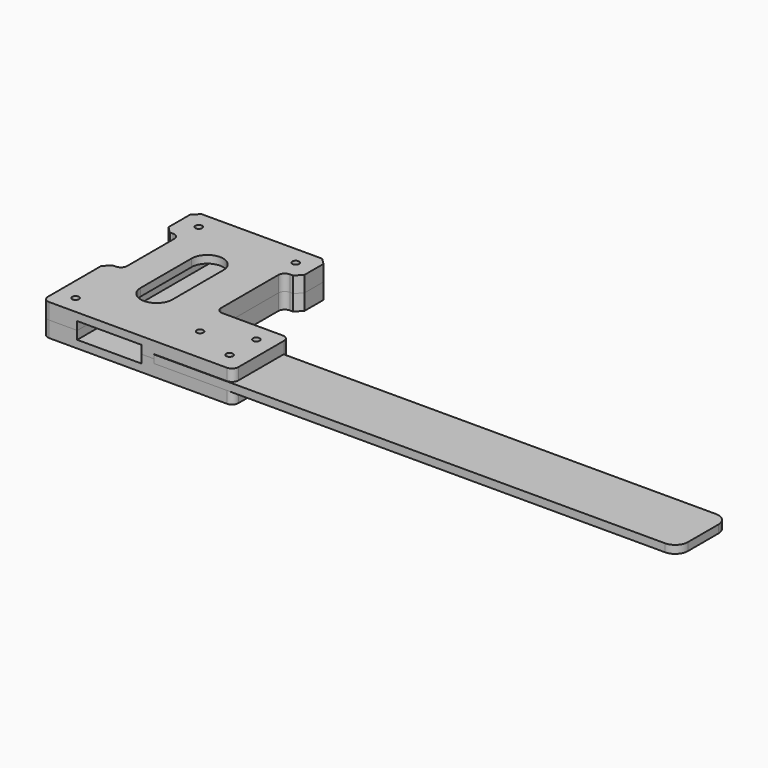
from build123d import *

# Parameters (mm, degrees)
F1_DEPTH        = 3.175
F2_SIZE         = 2.54
F3_R            = 2.54
F4_DEPTH        = 6.35
F5_W            = 25.781
F5_H            = 76.2
F6_DEPTH        = 3.302
F6_DEPTH_BACK   = 3.302
F7_W            = 31.75
F7_H            = 25.4
F8_DEPTH        = 1.651
F8_DEPTH_BACK   = 1.651
F10_D           = 2.7051
F12_D           = 3.6576
F12_CSINK_D     = 7.7978
F12_CSINK_ANGLE = 82
F14_DEPTH       = 25.4
F15_W           = 209.55
F15_H           = 25.4
F16_DEPTH       = 3.175
F17_R           = 5.08
F18_D           = 3.6576
F20_D           = 3.7973
F20_DEPTH       = 25.4
F20_TIP         = 1.1408240143
F20_2_D         = 3.7973
F20_2_DEPTH     = 25.4
F20_2_TIP       = 1.1408240143


with BuildPart() as f1:
    # F0 (on Top) → F1 (new body, symmetric)
    with BuildSketch(Plane.XY):
        Polygon((-38.1, -6.35), (-38.1, -38.1), (38.1, -38.1), (38.1, -10.16), (8.89, -10.16), (8.89, 23.495), (15.24, 23.495), (15.24, 38.1), (-38.1, 38.1), (-38.1, 22.225), (-31.75, 22.225), (-31.75, -6.35), align=None)
    extrude(amount=F1_DEPTH, both=True)

    # F2
    f2_edges = [f1.edges().sort_by_distance(p)[0] for p in [
        (-38.1, 38.1, 0),
        (-38.1, 22.225, 0),
        (-38.1, -6.35, 0),
        (15.24, 23.495, 0),
        (15.24, 38.1, 0),
    ]]
    chamfer(f2_edges, length=F2_SIZE)

    # F3
    f3_edges = [f1.edges().sort_by_distance(p)[0] for p in [
        (-31.75, 22.225, 0),
        (-31.75, -6.35, 0),
        (8.89, 23.495, 0),
        (8.89, -10.16, 0),
        (38.1, -10.16, 0),
        (38.1, -38.1, 0),
        (-38.1, -38.1, 0),
    ]]
    fillet(f3_edges, radius=F3_R)


with BuildPart() as f4:
    # F4 (new): a face of the model
    f4_faces = [f1.part.faces().sort_by_distance(p)[0] for p in [
        (-5.9422199063, -4.3062471014, -3.175),
    ]]
    extrude(f4_faces, amount=F4_DEPTH)


with BuildPart() as f6_tool:
    # F5 (on face) → F6 (new body, two sides)
    with BuildSketch(Plane(origin=(0, 0, -3.175), x_dir=(1, 0, 0), z_dir=(0, 0, -1))) as f6_sk:
        with Locations((-11.43, 0)):
            Rectangle(F5_W, F5_H)
    extrude(amount=-F6_DEPTH)
    extrude(f6_sk.sketch, amount=F6_DEPTH_BACK)


with BuildPart() as f1_1:
    add(f1.part)

    # F6: cut by f6_tool
    add(f6_tool.part, mode=Mode.SUBTRACT)


with BuildPart() as f4_1:
    add(f4.part)

    # F6: cut by f6_tool
    add(f6_tool.part, mode=Mode.SUBTRACT)


with BuildPart() as f8_tool:
    # F7 (on face) → F8 (new body, two sides)
    with BuildSketch(Plane(origin=(0, 0, -3.175), x_dir=(1, 0, 0), z_dir=(0, 0, -1))) as f8_sk:
        with Locations((22.225, 25.4)):
            Rectangle(F7_W, F7_H)
    extrude(amount=-F8_DEPTH)
    extrude(f8_sk.sketch, amount=F8_DEPTH_BACK)


with BuildPart() as f1_2:
    add(f1_1.part)

    # F8: cut by f8_tool
    add(f8_tool.part, mode=Mode.SUBTRACT)

    # F10 (through all)
    with Locations(Plane.XY.offset(3.175)):
        with Locations((-30.7975, 30.7975), (7.9375, 30.7975), (-30.7975, -30.7975), (13.6525, -24.13), (30.7975, -17.4625), (30.7975, -30.7975)):
            Hole(F10_D / 2)

    # F13 (on face) → F14 (cut)
    with BuildSketch(Plane(origin=(0, 0, 0.127), x_dir=(1, 0, 0), z_dir=(0, 0, -1))):
        with BuildLine():
            Line((-6.5405, -12.7), (-6.5405, 12.7))
            ThreePointArc((-6.5405, 12.7), (-12.8905, 19.05), (-19.2405, 12.7))
            Line((-19.2405, 12.7), (-19.2405, -12.7))
            ThreePointArc((-19.2405, -12.7), (-12.8905, -19.05), (-6.5405, -12.7))
        make_face()
    extrude(amount=-F14_DEPTH, mode=Mode.SUBTRACT)

    # F20
    with Locations(Plane(origin=(-38.1, 0, 0), x_dir=(0, -1, 0), z_dir=(-1, 0, 0))):
        with Locations((22.225, -3.175)):
            Hole(F20_D / 2, depth=F20_DEPTH)
            with Locations((0, 0, -(F20_DEPTH + F20_TIP / 2))):  # 118° drill point
                Cone(0, F20_D / 2, F20_TIP, mode=Mode.SUBTRACT)


with BuildPart() as f4_2:
    add(f4_1.part)

    # F8: cut by f8_tool
    add(f8_tool.part, mode=Mode.SUBTRACT)

    # F12 (through all)
    with Locations(Plane(origin=(0, 0, -9.525), x_dir=(1, 0, 0), z_dir=(0, 0, -1))):
        with Locations((-30.7975, -30.7975), (-30.7975, 30.7975), (7.9375, -30.7975), (13.6525, 24.13), (30.7975, 17.4625), (30.7975, 30.7975)):
            CounterSinkHole(F12_D / 2, F12_CSINK_D / 2, counter_sink_angle=F12_CSINK_ANGLE)

    # F20#2
    with Locations(Plane(origin=(-38.1, 0, 0), x_dir=(0, -1, 0), z_dir=(-1, 0, 0))):
        with Locations((22.225, -3.175)):
            Hole(F20_2_D / 2, depth=F20_2_DEPTH)
            with Locations((0, 0, -(F20_2_DEPTH + F20_2_TIP / 2))):  # 118° drill point
                Cone(0, F20_2_D / 2, F20_2_TIP, mode=Mode.SUBTRACT)


with BuildPart() as f16:
    # F15 (on face) → F16 (new body)
    with BuildSketch(Plane.XY.offset(-4.826)):
        with Locations((111.125, -25.4)):
            Rectangle(F15_W, F15_H)
    extrude(amount=F16_DEPTH)

    # F17
    f17_edges = [f16.edges().sort_by_distance(p)[0] for p in [
        (215.9, -38.1, -3.2385),
        (215.9, -12.7, -3.2385),
    ]]
    fillet(f17_edges, radius=F17_R)

    # F18 (through all)
    with Locations(Plane.XY.offset(3.175)):
        with Locations((13.6525, -24.13), (30.7975, -30.7975), (30.7975, -17.4625)):
            Hole(F18_D / 2)


solid = Compound([f1_2.part, f4_2.part, f16.part])
